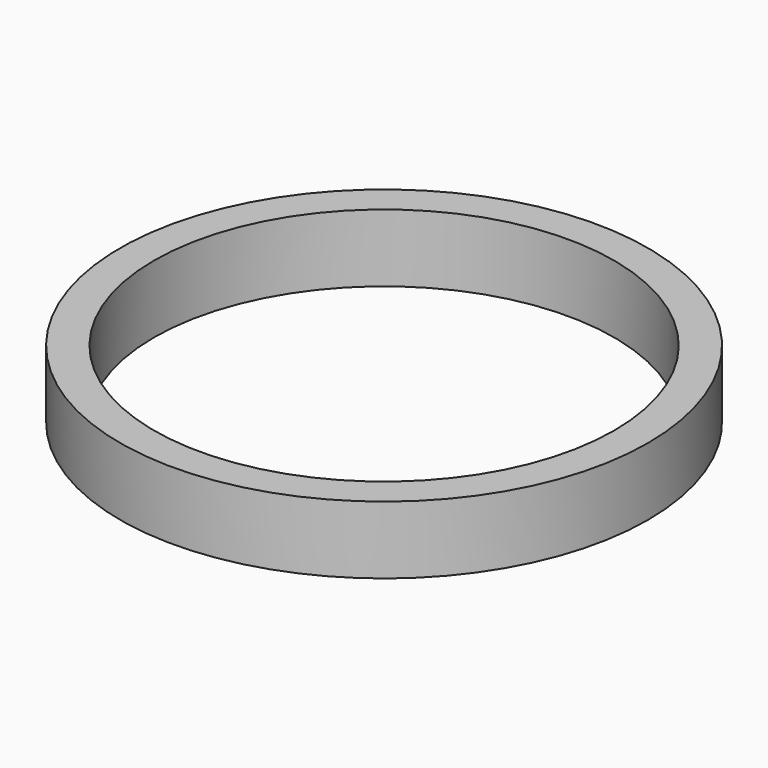
from build123d import *

# Parameters (mm, degrees)
CYLINDER_R        = 10.2
CYLINDER_DEPTH    = 18
CYLINDER001_R     = 11.7
CYLINDER001_DEPTH = 3


with BuildPart() as cilindro_interior:
    # Cylinder → Cylinder (new body)
    with BuildSketch(Plane.XY.offset(-8)):
        Circle(CYLINDER_R)
    extrude(amount=CYLINDER_DEPTH)


with BuildPart() as obj1:
    # Cylinder001 → Cylinder001 (new body)
    with BuildSketch(Plane.XY):
        Circle(CYLINDER001_R)
    extrude(amount=CYLINDER001_DEPTH)

    # Cut: cut cilindro-interior
    add(cilindro_interior.part, mode=Mode.SUBTRACT)


solid = obj1.part
